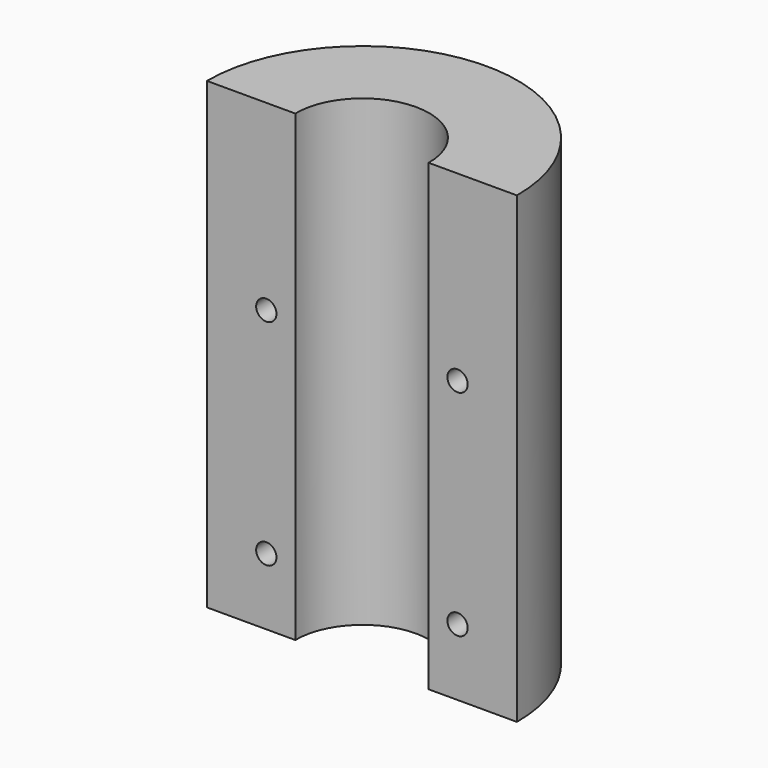
from build123d import *

# Parameters (mm, degrees)
F1_DEPTH       = 80
F4_D           = 3.5
F4_START       = 9.5653412
F4_CBORE_D     = 8
F4_CBORE_DEPTH = 7
F5_D           = 3.5
F6_DEPTH       = 25
F7_DEPTH       = 14


with BuildPart() as f1:
    # F0 (on Top) → F1 (new body)
    with BuildSketch(Plane.XY):
        with BuildLine():
            Line((11.4989534177, -0.1551460505), (26.7495500841, -0.1551460505))
            ThreePointArc((26.7495500841, -0.1551460505), (0, 26.75), (-26.7495500841, -0.1551460505))
            Line((-26.7495500841, -0.1551460505), (-11.4989534177, -0.1551460505))
            ThreePointArc((-11.4989534177, -0.1551460505), (0, 11.5), (11.4989534177, -0.1551460505))
        make_face()
    extrude(amount=F1_DEPTH)

    # F4 (through all)
    # its depths count from where the whole tool has entered the part; down to there all is cleared
    with Locations(Plane(origin=(0, 26.75, 0), x_dir=(1, 0, 0), z_dir=(0, 1, 0)).offset(-F4_START)):
        with Locations((16.5, -48.5), (16.5, -11.5)):
            CounterBoreHole(F4_D / 2, F4_CBORE_D / 2, F4_CBORE_DEPTH)

    # F5 (through all)
    with Locations(Plane(origin=(0, 26.75, 0), x_dir=(1, 0, 0), z_dir=(0, 1, 0))):
        with Locations((-16.5, -48.5), (-16.5, -11.5)):
            Hole(F5_D / 2)

    # F3 (on offset) → F6 (cut)
    with BuildSketch(Plane.XZ.offset(-26.75)):
        Polygon((-16.5, 45.1513684387), (-13.6, 46.8256842194), (-13.6, 50.1743157806), (-16.5, 51.8486315613), (-19.4, 50.1743157806), (-19.4, 46.8256842194), align=None)
    extrude(amount=-F6_DEPTH, mode=Mode.SUBTRACT)

    # F3 (on offset) → F7 (cut)
    with BuildSketch(Plane.XZ.offset(-26.75)):
        Polygon((-16.5, 45.1513684387), (-13.6, 46.8256842194), (-13.6, 50.1743157806), (-16.5, 51.8486315613), (-19.4, 50.1743157806), (-19.4, 46.8256842194), align=None)
        Polygon((-16.5, 8.1513684387), (-13.6, 9.8256842194), (-13.6, 13.1743157806), (-16.5, 14.8486315613), (-19.4, 13.1743157806), (-19.4, 9.8256842194), align=None)
    extrude(amount=F7_DEPTH, mode=Mode.SUBTRACT)


solid = f1.part
